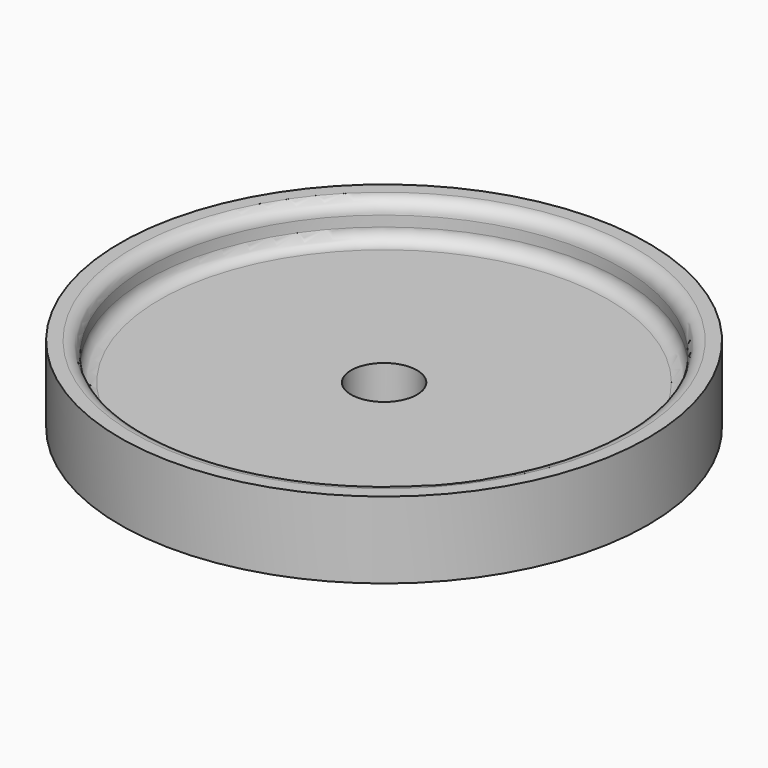
from build123d import *

# Parameters (mm, degrees)
F0_R     = 25.4
F1_DEPTH = 3.81
F2_R     = 25.4
F2_R_2   = 22.86
F3_DEPTH = 3.556
F4_R     = 1.27
F5_R     = 3.175
F6_DEPTH = 7.367


with BuildPart() as f1:
    # F0 (on Top) → F1 (new body)
    with BuildSketch(Plane.XY):
        Circle(F0_R)
    extrude(amount=F1_DEPTH)

    # F2 (on face) → F3 (join)
    with BuildSketch(Plane.XY.offset(3.81)):
        Circle(F2_R)
        Circle(F2_R_2, mode=Mode.SUBTRACT)
    extrude(amount=F3_DEPTH)

    # F4
    f4_edges = [f1.edges().sort_by_distance(p)[0] for p in [
        (-22.86, 0, 7.366),
        (-22.86, 0, 3.81),
    ]]
    fillet(f4_edges, radius=F4_R)

    # F5 (on Top) → F6 (cut, through all)
    with BuildSketch(Plane.XY):
        Circle(F5_R)
    extrude(amount=F6_DEPTH, mode=Mode.SUBTRACT)


with BuildPart() as f7_1:
    # F7: copy of F1
    add(f1.part)


solid = Compound([f1.part, f7_1.part])
